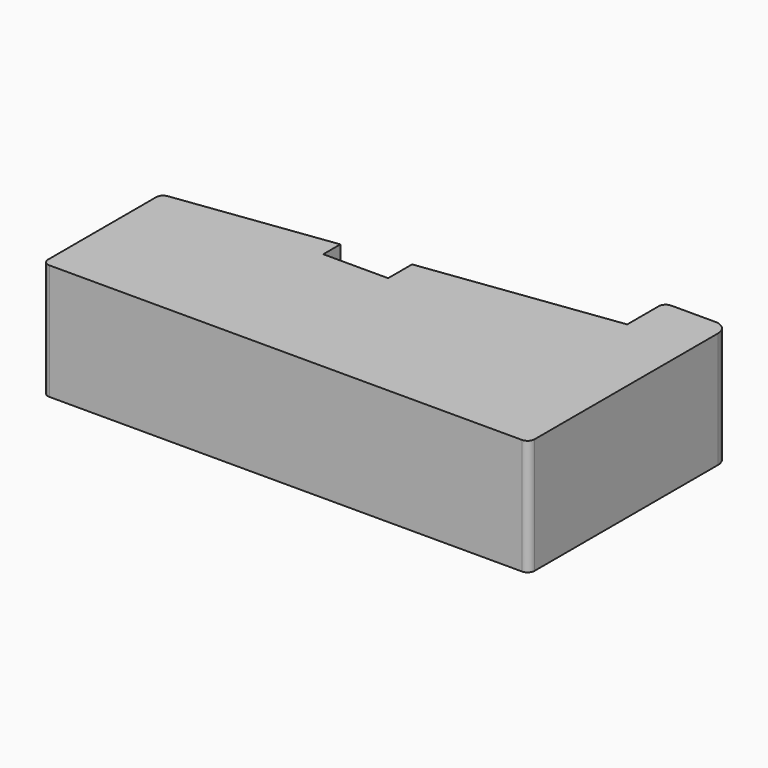
from build123d import *

# Parameters (mm, degrees)
F1_DEPTH = 25


with BuildPart() as f1:
    # F0 (on Top) → F1 (new body)
    with BuildSketch(Plane.XY):
        with BuildLine():
            ThreePointArc((-64.864735, -39.460148), (-64.425395, -40.520808), (-63.364735, -40.960148))
            Line((-63.364735, -40.960148), (-29.864735, -40.960148))
            Line((-29.864735, -40.960148), (-15.864735, -40.960148))
            Line((-15.864735, -40.960148), (26.135265, -40.960148))
            Line((26.135265, -40.960148), (38.635265, -40.960148))
            ThreePointArc((38.635265, -40.960148), (39.695925, -40.520808), (40.135265, -39.460148))
            Line((40.135265, -39.460148), (40.135265, 10.039852))
            ThreePointArc((40.135265, 10.039852), (39.256585, 12.161172), (37.135265, 13.039852))
            Line((37.135265, 13.039852), (27.635265, 13.039852))
            ThreePointArc((27.635265, 13.039852), (26.574605, 12.600512), (26.135265, 11.539852))
            Line((26.135265, 11.539852), (26.135265, 3.039852))
            Line((26.135265, 3.039852), (-15.864735, -2.49861))
            Line((-15.864735, -2.49861), (-15.864735, -8.960148))
            Line((-15.864735, -8.960148), (-29.864735, -8.960148))
            Line((-29.864735, -8.960148), (-29.864735, -4.344763))
            Line((-29.864735, -4.344763), (-63.56084, -8.788206))
            ThreePointArc((-63.56084, -8.788206), (-64.4926, -9.286432), (-64.864735, -10.275331))
            Line((-64.864735, -10.275331), (-64.864735, -39.460148))
        make_face()
        with BuildLine():
            ThreePointArc((-64.864735, -39.460148), (-64.425395, -40.520808), (-63.364735, -40.960148))
            Line((-63.364735, -40.960148), (-29.864735, -40.960148))
            Line((-29.864735, -40.960148), (-15.864735, -40.960148))
            Line((-15.864735, -40.960148), (26.135265, -40.960148))
            Line((26.135265, -40.960148), (38.635265, -40.960148))
            ThreePointArc((38.635265, -40.960148), (39.695925, -40.520808), (40.135265, -39.460148))
            Line((40.135265, -39.460148), (40.135265, 10.039852))
            ThreePointArc((40.135265, 10.039852), (39.256585, 12.161172), (37.135265, 13.039852))
            Line((37.135265, 13.039852), (27.635265, 13.039852))
            ThreePointArc((27.635265, 13.039852), (26.574605, 12.600512), (26.135265, 11.539852))
            Line((26.135265, 11.539852), (26.135265, 3.039852))
            Line((26.135265, 3.039852), (-15.864735, -2.49861))
            Line((-15.864735, -2.49861), (-15.864735, -8.960148))
            Line((-15.864735, -8.960148), (-29.864735, -8.960148))
            Line((-29.864735, -8.960148), (-29.864735, -4.344763))
            Line((-29.864735, -4.344763), (-63.56084, -8.788206))
            ThreePointArc((-63.56084, -8.788206), (-64.4926, -9.286432), (-64.864735, -10.275331))
            Line((-64.864735, -10.275331), (-64.864735, -39.460148))
        make_face()
    extrude(amount=F1_DEPTH)


solid = f1.part
